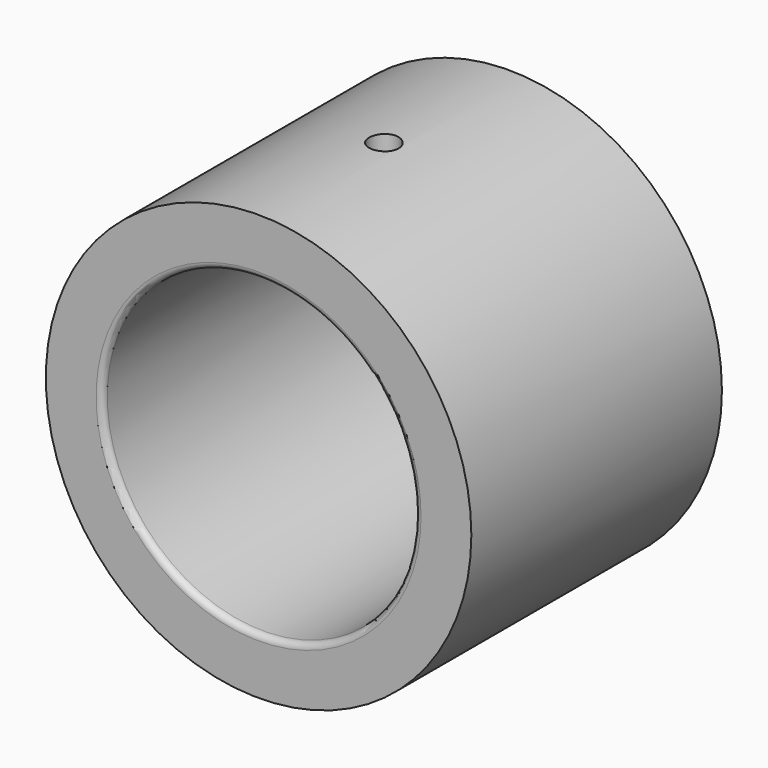
from build123d import *

# Parameters (mm, degrees)
F2_R          = 17.199
F2_R_2        = 12.6365
F3_DEPTH      = 12.665
F3_DEPTH_BACK = 12.656
F5_R          = 1.190625
F6_DEPTH      = 17.2


with BuildPart() as f1:
    # F0 (on Top) → F1 (revolve)
    with BuildSketch(Plane.XY):
        with BuildLine():
            Line((13.1365, 12.665), (17.399, 12.665))
            Line((17.399, 12.665), (17.399, 14.165))
            Line((17.399, 14.165), (11.1365, 14.165))
            Line((11.1365, 14.165), (11.1365, -14.156))
            Line((11.1365, -14.156), (17.399, -14.156))
            Line((17.399, -14.156), (17.399, -12.656))
            Line((17.399, -12.656), (13.1365, -12.656))
            ThreePointArc((13.1365, -12.656), (12.7829466094, -12.5095533906), (12.6365, -12.156))
            Line((12.6365, -12.156), (12.6365, 12.165))
            ThreePointArc((12.6365, 12.165), (12.7829466094, 12.5185533906), (13.1365, 12.665))
        make_face()
    revolve(axis=Axis((0, 2.8540128842, 0), (0, 1, 0)))


with BuildPart() as f3:
    # F2 (on Front) → F3 (new body, two sides)
    with BuildSketch(Plane.XZ) as f3_sk:
        Circle(F2_R)
        Circle(F2_R_2, mode=Mode.SUBTRACT)
    extrude(amount=-F3_DEPTH)
    extrude(f3_sk.sketch, amount=F3_DEPTH_BACK)

    # F4: cut F1
    add(f1.part, mode=Mode.SUBTRACT)

    # F5 (on Top) → F6 (cut, through all)
    with BuildSketch(Plane.XY):
        Circle(F5_R)
    extrude(amount=F6_DEPTH, mode=Mode.SUBTRACT)


solid = f3.part
